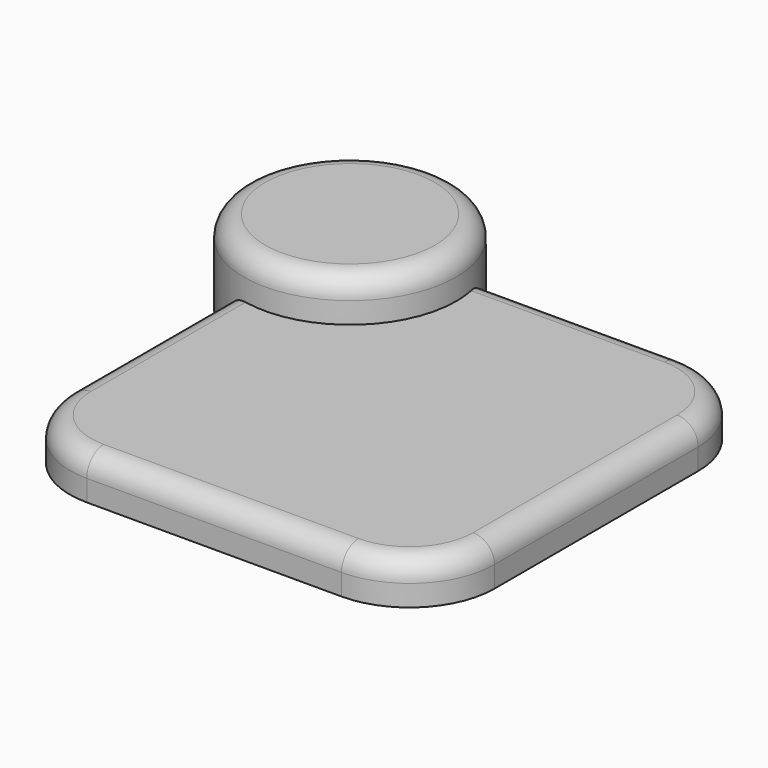
from build123d import *

# Parameters (mm, degrees)
F0_W     = 10
F0_H     = 10
F1_DEPTH = 1
F2_R     = 2.5
F3_DEPTH = 2
F4_R     = 2
F5_R     = 0.5


with BuildPart() as f1:
    # F0 (on Top) → F1 (new body)
    with BuildSketch(Plane.XY):
        with Locations((-5, 5)):
            Rectangle(F0_W, F0_H)
    extrude(amount=F1_DEPTH)

    # F2 (on Top) → F3 (join)
    with BuildSketch(Plane.XY):
        with Locations((-9, 9)):
            Circle(F2_R)
    extrude(amount=F3_DEPTH)

    # F4
    f4_edges = [f1.edges().sort_by_distance(p)[0] for p in [
        (0, 10, 0.5),
        (0, 0, 0.5),
        (-10, 0, 0.5),
    ]]
    fillet(f4_edges, radius=F4_R)

    # F5
    f5_edges = [f1.edges().sort_by_distance(p)[0] for p in [
        (-10, 4.354356, 1),
        (-11.5, 9, 2),
    ]]
    fillet(f5_edges, radius=F5_R)


solid = f1.part
